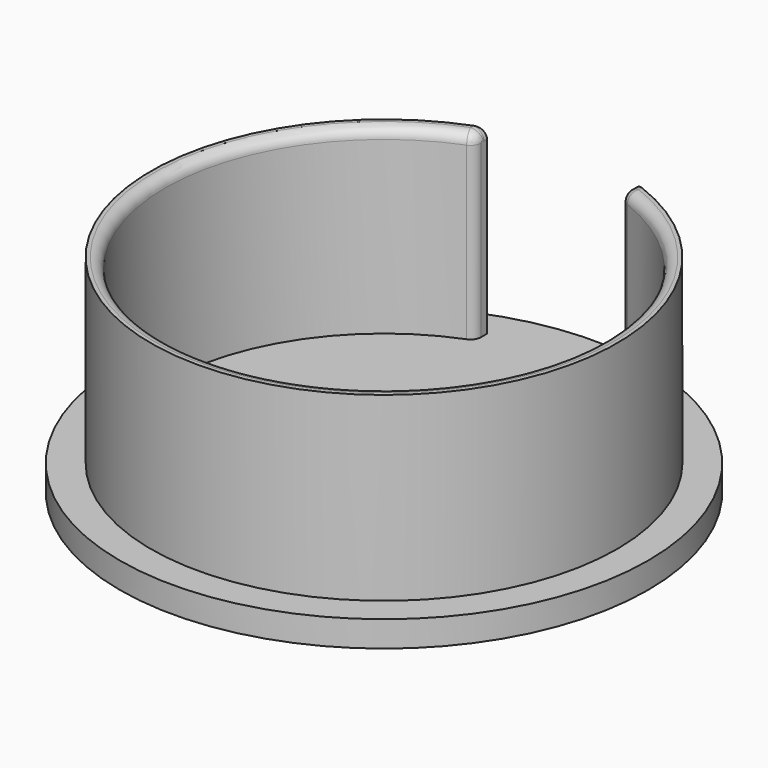
from build123d import *

# Parameters (mm, degrees)
BOX_W             = 14.25
BOX_H             = 30
BOX_DEPTH         = 20
CYLINDER002_R     = 21.15
CYLINDER002_DEPTH = 30
CYLINDER001_R     = 22.5
CYLINDER001_DEPTH = 20
FILLET_R          = 1
FILLET001_R       = 1
CYLINDER_R        = 25.5
CYLINDER_DEPTH    = 2.5


with BuildPart() as cube:
    # Box → Box (new body)
    with BuildSketch(Plane(origin=(-7.125, 0, 2.5), x_dir=(1, 0, 0), z_dir=(0, 0, 1))):
        with Locations((7.125, 15)):
            Rectangle(BOX_W, BOX_H)
    extrude(amount=BOX_DEPTH)


with BuildPart() as cylinder002:
    # Cylinder002 → Cylinder002 (new body)
    with BuildSketch(Plane.XY.offset(2.5)):
        Circle(CYLINDER002_R)
    extrude(amount=CYLINDER002_DEPTH)


with BuildPart() as fillet001:
    # Cylinder001 → Cylinder001 (new body)
    with BuildSketch(Plane.XY):
        Circle(CYLINDER001_R)
    extrude(amount=CYLINDER001_DEPTH)

    # Cut: cut Cylinder002
    add(cylinder002.part, mode=Mode.SUBTRACT)

    # Cut001: cut Cube
    add(cube.part, mode=Mode.SUBTRACT)

    # Fillet
    fillet_edges = [fillet001.edges().sort_by_distance(p)[0] for p in [
        (-12.178439, -17.291851, 20),
        (17.291851, 12.178439, 20),
    ]]
    fillet(fillet_edges, radius=FILLET_R)

    # Fillet001
    fillet001_edges = [fillet001.edges().sort_by_distance(p)[0] for p in [
        (-7.125, 21.157422, 20),
        (7.125, 21.157422, 20),
        (-7.125, 20.235006, 19.716842),
        (7.125, 20.235006, 19.716842),
    ]]
    fillet(fillet001_edges, radius=FILLET001_R)


with BuildPart() as viewfinder_cap:
    # Cylinder → Cylinder (new body)
    with BuildSketch(Plane.XY):
        Circle(CYLINDER_R)
    extrude(amount=CYLINDER_DEPTH)

    # Fusion: union Fillet001
    add(fillet001.part)


solid = viewfinder_cap.part
